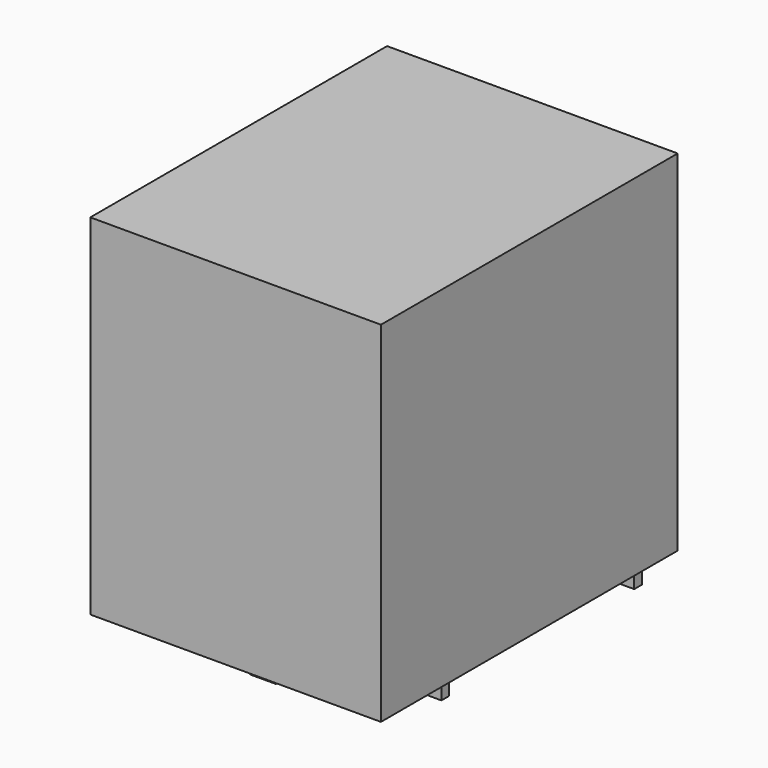
from build123d import *

# Parameters (mm, degrees)
BOX007_W                  = 0.4
BOX007_H                  = 1.1
BOX007_DEPTH              = 2.5
BOX005_W                  = 0.4
BOX005_H                  = 1.1
BOX005_DEPTH              = 2.5
BOX006_W                  = 0.4
BOX006_H                  = 1.1
BOX006_DEPTH              = 2.5
BOX008_W                  = 0.4
BOX008_H                  = 1.1
BOX008_DEPTH              = 2.5
BOX004_W                  = 15.7
BOX004_H                  = 12.3
BOX004_DEPTH              = 14.8
BOX009_W                  = 0.4
BOX009_H                  = 1.1
BOX009_DEPTH              = 2.5
FUSION001_PLACEMENT_ANGLE = 90


with BuildPart() as obj1:
    # Box007 → Box007 (new body)
    with BuildSketch(Plane(origin=(3.95, 10.6, -2), x_dir=(1, 0, 0), z_dir=(0, 0, 1))):
        with Locations((0.2, 0.55)):
            Rectangle(BOX007_W, BOX007_H)
    extrude(amount=BOX007_DEPTH)


with BuildPart() as obj2:
    # Box005 → Box005 (new body)
    with BuildSketch(Plane(origin=(1.45, 5.6, -2), x_dir=(1, 0, 0), z_dir=(0, 0, 1))):
        with Locations((0.2, 0.55)):
            Rectangle(BOX005_W, BOX005_H)
    extrude(amount=BOX005_DEPTH)


with BuildPart() as obj3:
    # Box006 → Box006 (new body)
    with BuildSketch(Plane(origin=(14.15, 10.6, -2), x_dir=(1, 0, 0), z_dir=(0, 0, 1))):
        with Locations((0.2, 0.55)):
            Rectangle(BOX006_W, BOX006_H)
    extrude(amount=BOX006_DEPTH)


with BuildPart() as obj4:
    # Box008 → Box008 (new body)
    with BuildSketch(Plane(origin=(14.15, 0.6, -2), x_dir=(1, 0, 0), z_dir=(0, 0, 1))):
        with Locations((0.2, 0.55)):
            Rectangle(BOX008_W, BOX008_H)
    extrude(amount=BOX008_DEPTH)


with BuildPart() as cuerpo:
    # Box004 → Box004 (new body)
    with BuildSketch(Plane.XY.offset(-1)):
        with Locations((7.85, 6.15)):
            Rectangle(BOX004_W, BOX004_H)
    extrude(amount=BOX004_DEPTH)


with BuildPart() as relay:
    # Box009 → Box009 (new body)
    with BuildSketch(Plane(origin=(3.95, 0.6, -2), x_dir=(1, 0, 0), z_dir=(0, 0, 1))):
        with Locations((0.2, 0.55)):
            Rectangle(BOX009_W, BOX009_H)
    extrude(amount=BOX009_DEPTH)

    # Fusion001: union obj1, obj2, obj3, obj4, cuerpo
    add(obj1.part)
    add(obj2.part)
    add(obj3.part)
    add(obj4.part)
    add(cuerpo.part)


with BuildPart() as relay_1:
    # Fusion001 placement: moved
    add(relay.part.moved(Location((12.4, 0, 1.6))).rotate(Axis((12.4, 0, 1.6), (0, 0, 1)), FUSION001_PLACEMENT_ANGLE))


solid = relay_1.part
